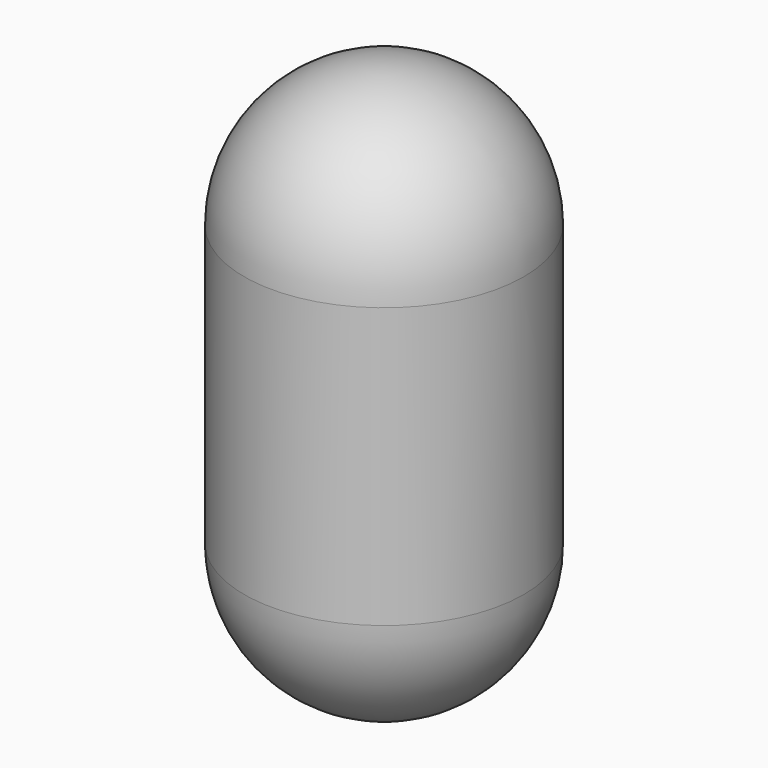
from build123d import *

# Parameters (mm, degrees)
F0_R     = 76.2
F1_DEPTH = 152.4
F2_R     = 76.2


with BuildPart() as f1:
    # F0 (on Top) → F1 (new body, symmetric)
    with BuildSketch(Plane.XY):
        Circle(F0_R)
    extrude(amount=F1_DEPTH, both=True)

    # F2
    f2_edges = [f1.edges().sort_by_distance(p)[0] for p in [
        (-76.2, 0, -152.4),
        (76.2, 0, 0),
        (-76.2, 0, 152.4),
    ]]
    fillet(f2_edges, radius=F2_R)


solid = f1.part
